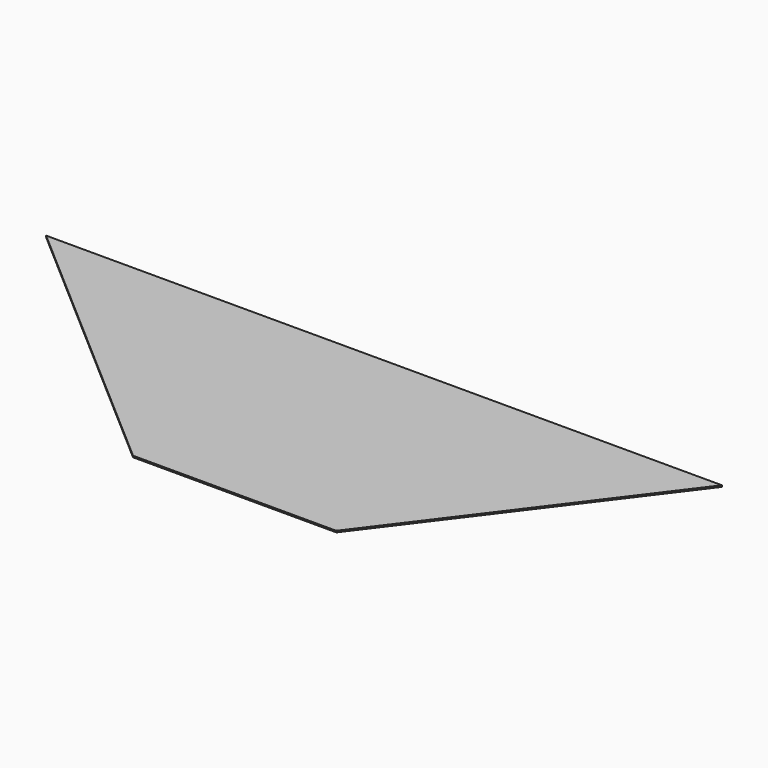
from build123d import *

# Parameters (mm, degrees)
F1_DEPTH = 1.524


with BuildPart() as f1:
    # F0 (on Top) → F1 (new body)
    with BuildSketch(Plane.XY):
        Polygon((-97.248423, -135.78557), (-66.097785, -162.864407), (145.052415, -162.864407), (166.070805, -134.972061), align=None)
        Polygon((-330.176573, 66.695782), (-97.248423, -135.78557), (166.070805, -134.972061), (319.55103, 68.703076), align=None)
        Polygon((-362.728536, 94.992772), (-330.176573, 66.695782), (319.55103, 68.703076), (339.361736, 94.992772), align=None)
    extrude(amount=F1_DEPTH)


solid = f1.part
